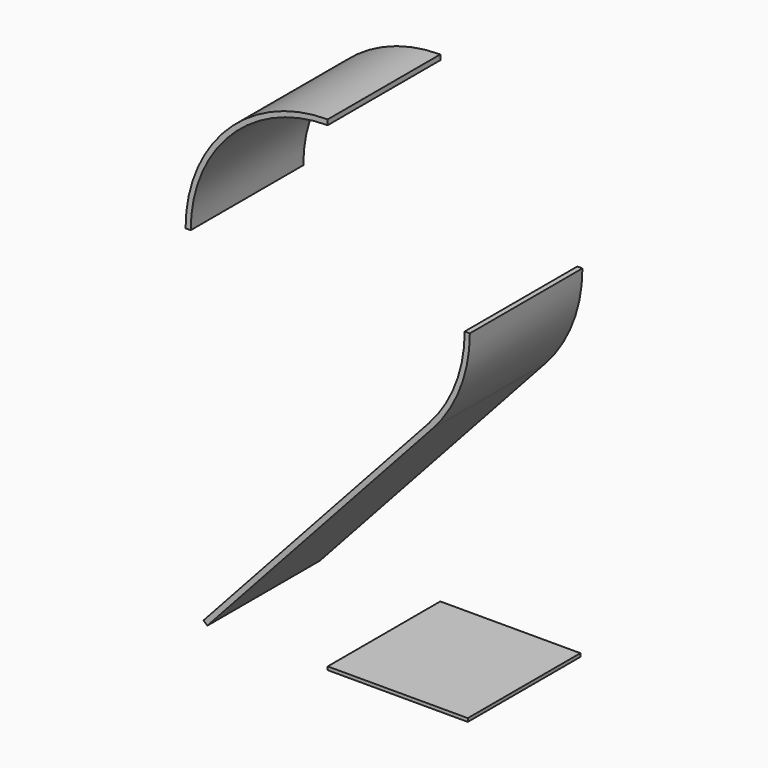
from build123d import *

# Parameters (mm, degrees)
F0_W     = 37.927904
F0_H     = 0.899671
F1_DEPTH = 38.1


with BuildPart() as f1:
    # F0 (on Front) → F1 (new body)
    with BuildSketch(Plane.XZ):
        with BuildLine():
            Line((-32.595715, -92.787935), (28.419951, -25.940655))
            ThreePointArc((28.419951, -25.940655), (35.875997, -13.911293), (38.478711, 0))
            Line((38.478711, 0), (37.088079, 0))
            ThreePointArc((37.088079, 0), (34.579428, -13.408534), (27.392846, -25.003152))
            Line((27.392846, -25.003152), (-33.622821, -91.850433))
            Line((-33.622821, -91.850433), (-32.595715, -92.787935))
        make_face()
        with Locations((18.963952, -92.338099)):
            Rectangle(F0_W, F0_H)
        with BuildLine():
            Line((0, 37.088079), (0, 38.478711))
            ThreePointArc((0, 38.478711), (-27.208558, 27.208558), (-38.478711, 0))
            Line((-38.478711, 0), (-37.088079, 0))
            ThreePointArc((-37.088079, 0), (-26.225232, 26.225232), (0, 37.088079))
        make_face()
    extrude(amount=F1_DEPTH)


solid = f1.part
